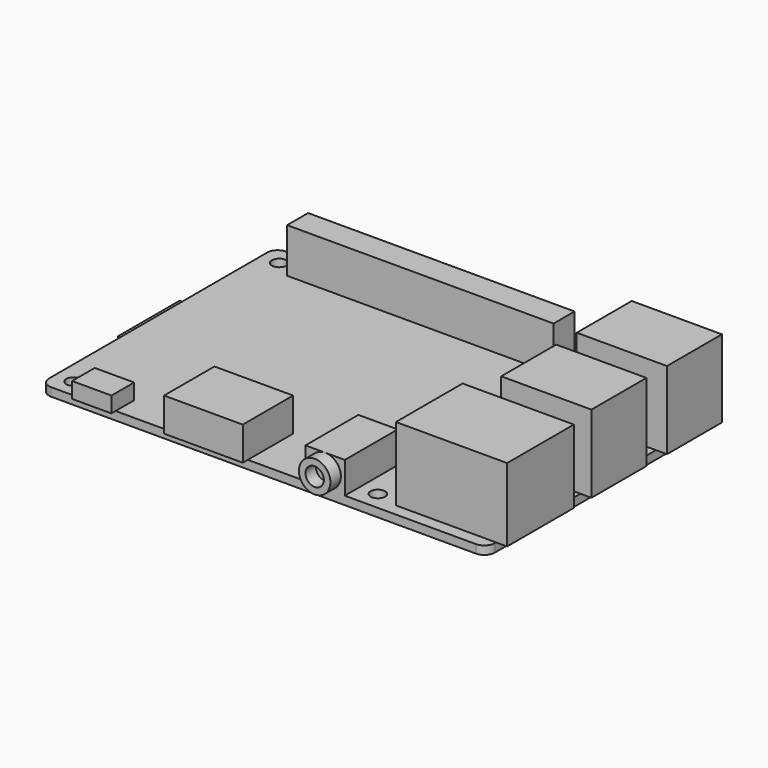
from build123d import *

# Parameters (mm, degrees)
F0_R      = 1.4
F1_DEPTH  = 1.6
F2_W      = 15.1
F2_H      = 13.1
F2_W_2    = 2.1
F3_DEPTH  = 14.8
F2_W_3    = 19.1
F2_H_2    = 15.9
F4_DEPTH  = 14
F5_W      = 50.8
F5_H      = 5
F6_DEPTH  = 8.5
F7_DEPTH  = 3.4
F8_W      = 17
F8_H      = 14.6
F9_DEPTH  = 1.4
F10_W     = 7.5
F10_H     = 4.4
F10_H_2   = 1
F11_DEPTH = 3
F10_W_2   = 15
F10_H_3   = 10.8
F10_H_4   = 1.2
F12_DEPTH = 6.4
F10_H_5   = 12.6
F13_DEPTH = 6
F14_R     = 3
F14_R_2   = 1.75
F15_DEPTH = 2.5


with BuildPart() as f1:
    # F0 (on Top) → F1 (new body)
    with BuildSketch(Plane.XY):
        with BuildLine():
            ThreePointArc((0, 2), (0.585786, 0.585786), (2, 0))
            Line((2, 0), (83, 0))
            ThreePointArc((83, 0), (84.414214, 0.585786), (85, 2))
            Line((85, 2), (85, 54))
            ThreePointArc((85, 54), (84.414214, 55.414214), (83, 56))
            Line((83, 56), (2, 56))
            ThreePointArc((2, 56), (0.585786, 55.414214), (0, 54))
            Line((0, 54), (0, 2))
        make_face()
        with Locations((3.5, 3.5)):
            Circle(F0_R, mode=Mode.SUBTRACT)
        with Locations((61.5, 3.5)):
            Circle(F0_R, mode=Mode.SUBTRACT)
        with Locations((3.5, 52.5)):
            Circle(F0_R, mode=Mode.SUBTRACT)
        with Locations((61.5, 52.5)):
            Circle(F0_R, mode=Mode.SUBTRACT)
    extrude(amount=F1_DEPTH)

    # F2 (on face) → F3 (join)
    with BuildSketch(Plane.XY.offset(1.6)):
        with Locations((77.45, 46.95)):
            Rectangle(F2_W, F2_H)
        with Locations((86.05, 46.95)):
            Rectangle(F2_W_2, F2_H)
        with Locations((77.45, 28.95)):
            Rectangle(F2_W, F2_H)
        with Locations((86.05, 28.95)):
            Rectangle(F2_W_2, F2_H)
    extrude(amount=F3_DEPTH)

    # F2 (on face) → F4 (join)
    with BuildSketch(Plane.XY.offset(1.6)):
        with Locations((75.45, 10.25)):
            Rectangle(F2_W_3, F2_H_2)
        with Locations((86.05, 10.25)):
            Rectangle(F2_W_2, F2_H_2)
    extrude(amount=F4_DEPTH)

    # F5 (on face) → F6 (join)
    with BuildSketch(Plane.XY.offset(1.6)):
        with Locations((32.4, 52.5)):
            Rectangle(F5_W, F5_H)
    extrude(amount=F6_DEPTH)

    # F5 (on face) → F7 (join)
    with BuildSketch(Plane.XY.offset(1.6)):
        with Locations((32.4, 52.5)):
            Rectangle(F5_W, F5_H)
    extrude(amount=-F7_DEPTH)

    # F8 (on face) → F9 (join)
    with BuildSketch(Plane(origin=(0, 0, 0), x_dir=(1, 0, 0), z_dir=(0, 0, -1))):
        with Locations((6.1, -28.8)):
            Rectangle(F8_W, F8_H)
    extrude(amount=F9_DEPTH)

    # F10 (on face) → F11 (join)
    with BuildSketch(Plane.XY.offset(1.6)):
        with Locations((10.55, 2.2)):
            Rectangle(F10_W, F10_H)
        with Locations((10.55, -0.5)):
            Rectangle(F10_W, F10_H_2)
    extrude(amount=F11_DEPTH)

    # F10 (on face) → F12 (join)
    with BuildSketch(Plane.XY.offset(1.6)):
        with Locations((32, 5.4)):
            Rectangle(F10_W_2, F10_H_3)
        with Locations((32, -0.6)):
            Rectangle(F10_W_2, F10_H_4)
    extrude(amount=F12_DEPTH)

    # F10 (on face) → F13 (join)
    with BuildSketch(Plane.XY.offset(1.6)):
        with Locations((54.25, 6.3)):
            Rectangle(F10_W, F10_H_5)
    extrude(amount=F13_DEPTH)

    # F14 (on face) → F15 (join)
    with BuildSketch(Plane.XZ):
        with Locations((54.25, 4.6)):
            Circle(F14_R)
        with Locations((54.25, 4.6)):
            Circle(F14_R_2, mode=Mode.SUBTRACT)
    extrude(amount=F15_DEPTH)


solid = f1.part
